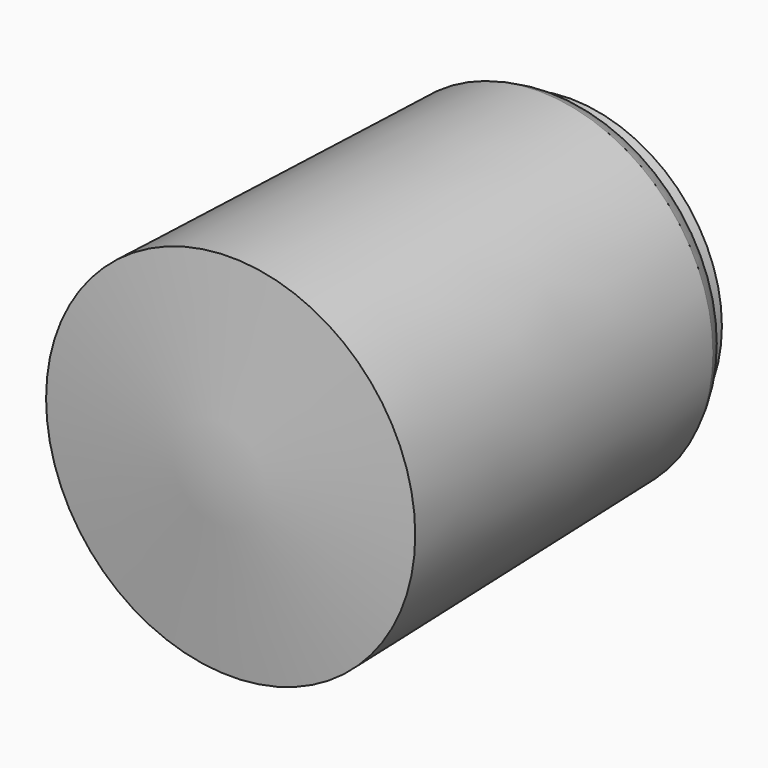
from build123d import *


with BuildPart() as f1:
    # F0 (on Top) → F1 (revolve)
    with BuildSketch(Plane.XY):
        with BuildLine():
            Line((-115.5733242631, 57.0293739438), (-115.5733242631, -75.9797766805))
            Line((-115.5733242631, -75.9797766805), (-49.7417673469, -69.1965743899))
            Line((-49.7417673469, -69.1965743899), (-53.5328015685, 68.2412087917))
            add(Edge.make_bspline(
                [(-61.6601034999, 74.4477882981), (-60.1760774382, 74.783803467), (-56.7265722306, 75.5648450568), (-54.6920458476, 70.8994721239), (-53.5328015685, 68.2412087917)],
                knots=[0, 0, 0, 0, 0.4302141822, 1, 1, 1, 1], degree=3))
            Line((-61.6601034999, 74.4477882981), (-61.6601034999, 82.4199629432))
            Line((-61.6601034999, 82.4199629432), (-108.8746339083, 77.5962844491))
            Line((-108.8746339083, 77.5962844491), (-108.8746339083, 67.8164288402))
            add(Edge.make_bspline(
                [(-115.5733242631, 57.0293739438), (-114.8918775977, 61.1384455934), (-113.7933541673, 67.7624584675), (-110.2282124707, 67.8015767779), (-108.8746339083, 67.8164288402)],
                knots=[0, 0, 0, 0, 0.6203296593, 1, 1, 1, 1], degree=3))
        make_face()
    revolve(axis=Axis((-115.5733242631, -9.4752013683, 0), (0, 1, 0)))


solid = f1.part
